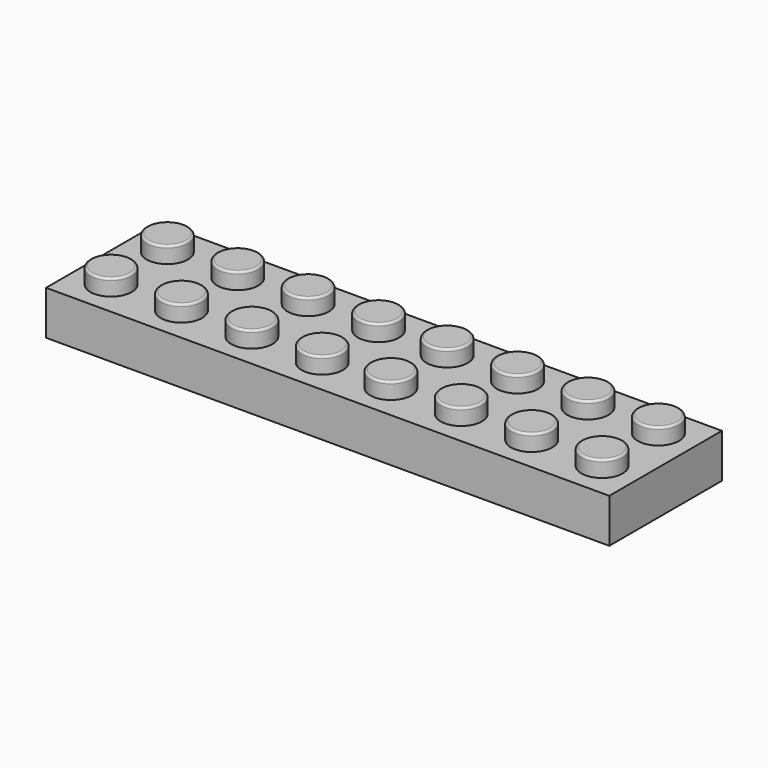
from build123d import *

# Parameters (mm, degrees)
F0_W     = 32.004
F0_H     = 16.002
F1_DEPTH = 5.0038
F2_R     = 2.3495
F3_DEPTH = 1.8542
F4_R     = 0.254
F5_W     = 29.0068
F5_H     = 13.0048
F5_R     = 3.2512
F5_R_2   = 2.4003
F6_DEPTH = 3.5052


with BuildPart() as f1:
    # F0 (on Top) → F1 (new body)
    with BuildSketch(Plane.XY):
        with Locations((16.002, 8.001)):
            Rectangle(F0_W, F0_H)
    extrude(amount=-F1_DEPTH)

    # F2 (on face) → F3 (join)
    with BuildSketch(Plane.XY):
        with Locations((3.8989, 12.1031)):
            Circle(F2_R)
        with Locations((3.8989, 4.1021)):
            Circle(F2_R)
        with Locations((11.8999, 4.1021)):
            Circle(F2_R)
        with Locations((11.8999, 12.1031)):
            Circle(F2_R)
        with Locations((19.9009, 12.1031)):
            Circle(F2_R)
        with Locations((19.9009, 4.1021)):
            Circle(F2_R)
        with Locations((27.9019, 4.1021)):
            Circle(F2_R)
        with Locations((27.9019, 12.1031)):
            Circle(F2_R)
    extrude(amount=F3_DEPTH)

    # F4
    f4_edges = [f1.edges().sort_by_distance(p)[0] for p in [
        (1.5494, 4.1021, 1.8542),
        (1.5494, 12.1031, 1.8542),
        (9.5504, 4.1021, 1.8542),
        (9.5504, 12.1031, 1.8542),
        (17.5514, 4.1021, 1.8542),
        (17.5514, 12.1031, 1.8542),
        (25.5524, 12.1031, 1.8542),
        (25.5524, 4.1021, 1.8542),
    ]]
    fillet(f4_edges, radius=F4_R)

    # F5 (on face) → F6 (cut)
    with BuildSketch(Plane(origin=(0, 0, -5.0038), x_dir=(1, 0, 0), z_dir=(0, 0, -1))):
        with Locations((16.002, -8.001)):
            Rectangle(F5_W, F5_H)
        with Locations((8.001, -8.001)):
            Circle(F5_R, mode=Mode.SUBTRACT)
        with Locations((16.002, -8.001)):
            Circle(F5_R, mode=Mode.SUBTRACT)
        with Locations((24.003, -8.001)):
            Circle(F5_R, mode=Mode.SUBTRACT)
        with Locations((24.003, -8.001)):
            Circle(F5_R_2)
        with Locations((16.002, -8.001)):
            Circle(F5_R_2)
        with Locations((8.001, -8.001)):
            Circle(F5_R_2)
    extrude(amount=-F6_DEPTH, mode=Mode.SUBTRACT)

    # F7: F1 across face


with BuildPart() as f1_1:
    add(f1.part)
    add(f1.part.mirror(Plane(origin=(0, 8.001, -2.5019), x_dir=(0, -1, 0), z_dir=(-1, 0, 0))))


solid = f1_1.part
